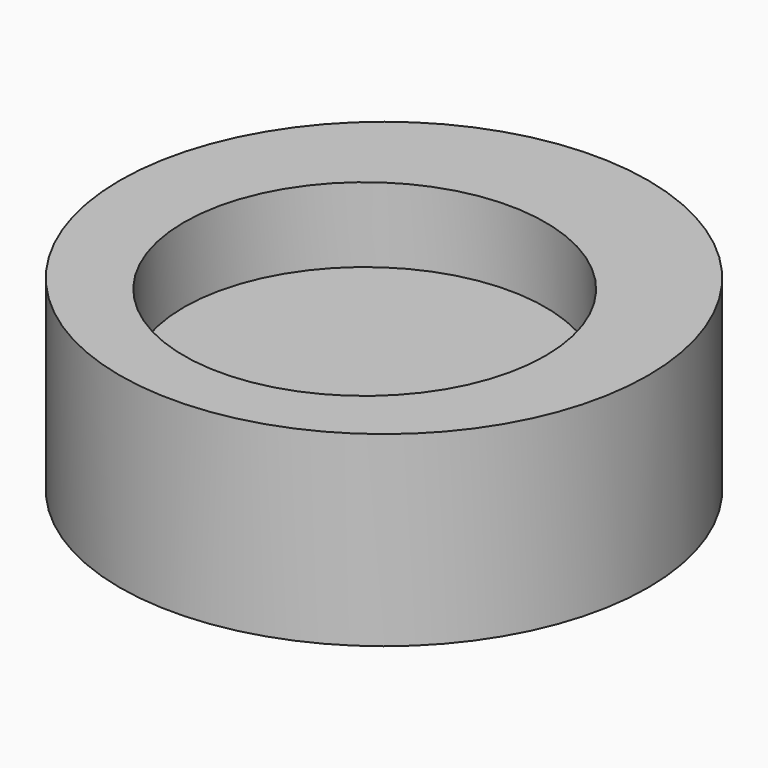
from build123d import *

# Parameters (mm, degrees)
F0_R      = 35.353158
F1_DEPTH  = 25
F2_R      = 24.193713
F3_DEPTH  = 15
F3_FACE_R = 24.193713
F4_DEPTH  = 25


with BuildPart() as f1:
    # F0 (on Top) → F1 (new body)
    with BuildSketch(Plane.XY):
        with Locations((0, 3.22861)):
            Circle(F0_R)
    extrude(amount=F1_DEPTH)

    # F2 (on face) → F3 (join)
    with BuildSketch(Plane.XY.offset(25)):
        Circle(F2_R)
    extrude(amount=F3_DEPTH)

    # F3_face (on face) → F4 (cut)
    with BuildSketch(Plane.XY.offset(40)):
        Circle(F3_FACE_R)
    extrude(amount=-F4_DEPTH, mode=Mode.SUBTRACT)


solid = f1.part
